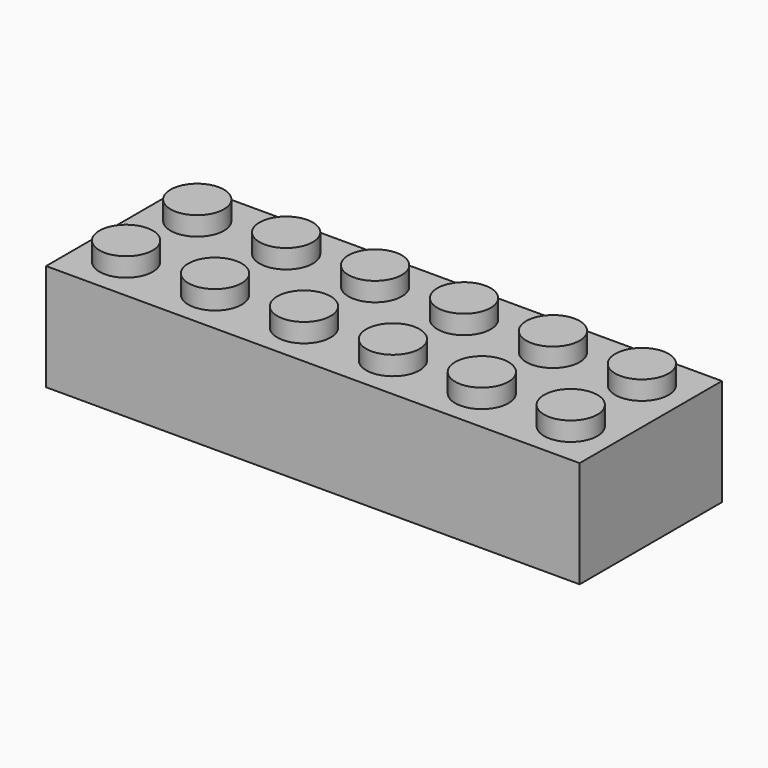
from build123d import *

# Parameters (mm, degrees)
F1_DEPTH  = 8
F3_W      = 8
F3_H      = 8
F3_R      = 2.4
F4_DEPTH  = 1.7
F5_R      = 2.4
F6_DEPTH  = 1.7
F14_W     = 33.3092473447
F14_H     = 24.2573712021
F15_DEPTH = 16.002


with BuildPart() as f1:
    # F0 (on Front) → F1 (new body)
    with BuildSketch(Plane.XZ):
        Polygon((-2.4, 9.6), (-4, 9.6), (-4, 0), (4, 0), (4, 9.6), (2.4, 9.6), (2.4, 11.3), (-2.4, 11.3), align=None)
    extrude(amount=F1_DEPTH)

    # F3 (on plane+point) → F4 (cut, through all)
    with BuildSketch(Plane.XY.offset(11.3)):
        with Locations((0, -4)):
            Rectangle(F3_W, F3_H)
        with Locations((0, -4)):
            Circle(F3_R, mode=Mode.SUBTRACT)
    extrude(amount=-F4_DEPTH, mode=Mode.SUBTRACT)

    # F5 (on Top) → F6 (cut)
    with BuildSketch(Plane.XY):
        with Locations((0, -4)):
            Circle(F5_R)
    extrude(amount=F6_DEPTH, mode=Mode.SUBTRACT)

    # F8: F1 across plane


with BuildPart() as f1_1:
    add(f1.part)
    add(f1.part.mirror(Plane.YZ.offset(4)))

    # F9: F1 across plane


with BuildPart() as f1_2:
    add(f1_1.part)
    add(f1_1.part.mirror(Plane.XZ))

    # F11: F1 across plane


with BuildPart() as f1_3:
    add(f1_2.part)
    add(f1_2.part.mirror(Plane.YZ.offset(12)))

    # F12: F1 across face


with BuildPart() as f1_4:
    add(f1_3.part)
    add(f1_3.part.mirror(Plane(origin=(28, 0, 4.8), x_dir=(0, 1, 0), z_dir=(1, 0, 0))))

    # F14 (on offset) → F15 (cut)
    with BuildSketch(Plane.YZ.offset(60)):
        with Locations((2.0649190992, 4.5698834583)):
            Rectangle(F14_W, F14_H)
    extrude(amount=-F15_DEPTH, mode=Mode.SUBTRACT)


solid = f1_4.part
